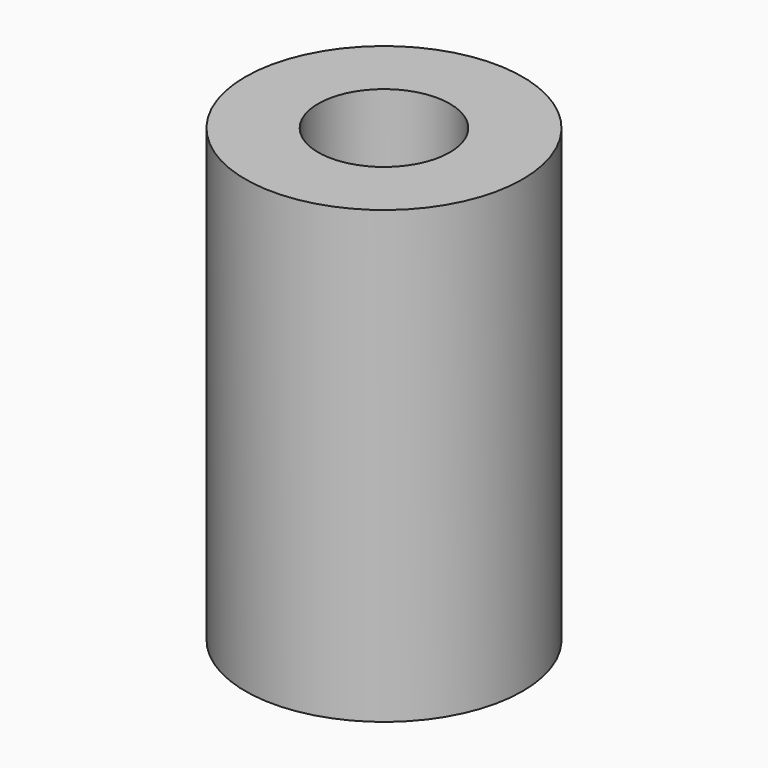
from build123d import *

# Parameters (mm, degrees)
CYLINDER004_R     = 1.9
CYLINDER004_DEPTH = 20
CYLINDER005_R     = 4
CYLINDER005_DEPTH = 13


with BuildPart() as cylinder004:
    # Cylinder004 → Cylinder004 (new body)
    with BuildSketch(Plane.XY.offset(-1)):
        Circle(CYLINDER004_R)
    extrude(amount=CYLINDER004_DEPTH)


with BuildPart() as cut004:
    # Cylinder005 → Cylinder005 (new body)
    with BuildSketch(Plane.XY):
        Circle(CYLINDER005_R)
    extrude(amount=CYLINDER005_DEPTH)

    # Cut004: cut Cylinder004
    add(cylinder004.part, mode=Mode.SUBTRACT)


solid = cut004.part
